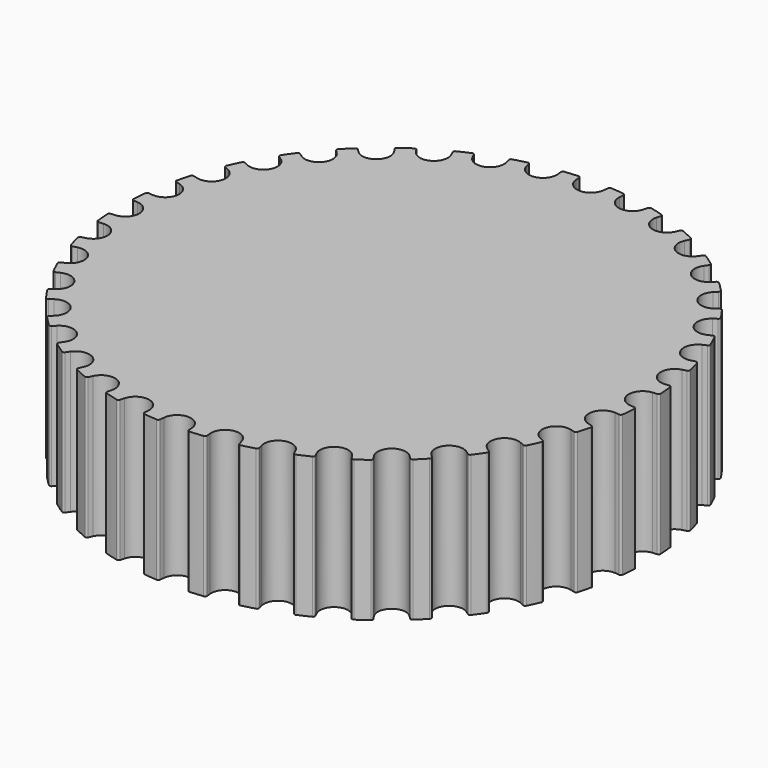
from build123d import *

# Parameters (mm, degrees)
F2_R     = 28.075
F3_DEPTH = 15
F5_DEPTH = 15
F6_COUNT = 36


with BuildPart() as f3:
    # F2 (on Top) → F3 (new body)
    with BuildSketch(Plane.XY):
        Circle(F2_R)
    extrude(amount=F3_DEPTH)

    # F4 (on face) → F5 (cut, through all)
    with BuildSketch(Plane.XY.offset(15)):
        with BuildLine():
            Line((-1.525, 27.8296980283), (-1.4840726448, 27.3722280717))
            ThreePointArc((-1.4840726448, 27.3722280717), (0, 26.015), (1.4840726448, 27.3722280717))
            Line((1.4840726448, 27.3722280717), (1.525, 27.8296980283))
            ThreePointArc((1.525, 27.8296980283), (1.5973356913, 27.9702894732), (1.7472338479, 28.0205781325))
            ThreePointArc((1.7472338479, 28.0205781325), (0, 28.075), (-1.7472338479, 28.0205781325))
            ThreePointArc((-1.7472338479, 28.0205781325), (-1.5973356913, 27.9702894732), (-1.525, 27.8296980283))
        make_face()
    f5 = extrude(amount=-F5_DEPTH, mode=Mode.SUBTRACT)

    # F6: F5 ×36 about axis
    f6_axis = Axis((0, 0, 0), (0, 0, -1))
    for i in range(1, F6_COUNT):
        add(f5.rotate(f6_axis, i * 360 / F6_COUNT), mode=Mode.SUBTRACT)


solid = f3.part
